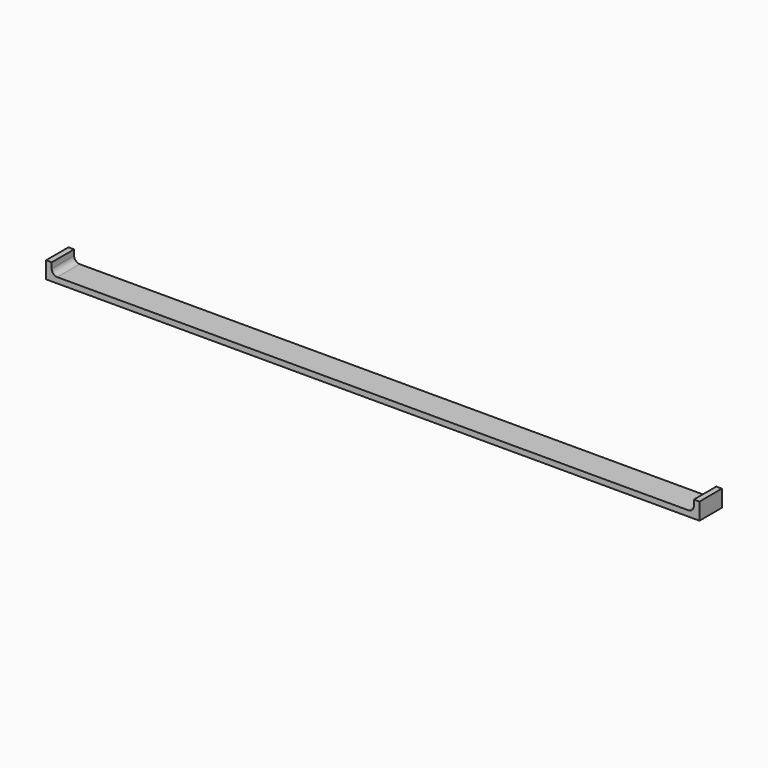
from build123d import *

# Parameters (mm, degrees)
F1_DEPTH = 25


with BuildPart() as f1:
    # F0 (on Front) → F1 (new body)
    with BuildSketch(Plane.XZ):
        with BuildLine():
            ThreePointArc((-63.544266, -2.609845), (-67.0798, -1.145379), (-68.544266, 2.390155))
            Line((-68.544266, 2.390155), (-68.544266, 7.390155))
            Line((-68.544266, 7.390155), (-73.544266, 7.390155))
            Line((-73.544266, 7.390155), (-73.544266, -7.609845))
            Line((-73.544266, -7.609845), (-68.544266, -7.609845))
            Line((-68.544266, -7.609845), (503.155734, -7.609845))
            Line((503.155734, -7.609845), (508.155734, -7.609845))
            Line((508.155734, -7.609845), (508.155734, 7.390155))
            Line((508.155734, 7.390155), (503.155734, 7.390155))
            Line((503.155734, 7.390155), (503.155734, 2.390155))
            ThreePointArc((503.155734, 2.390155), (501.691268, -1.145379), (498.155734, -2.609845))
            Line((498.155734, -2.609845), (-63.544266, -2.609845))
        make_face()
    extrude(amount=F1_DEPTH)


solid = f1.part
